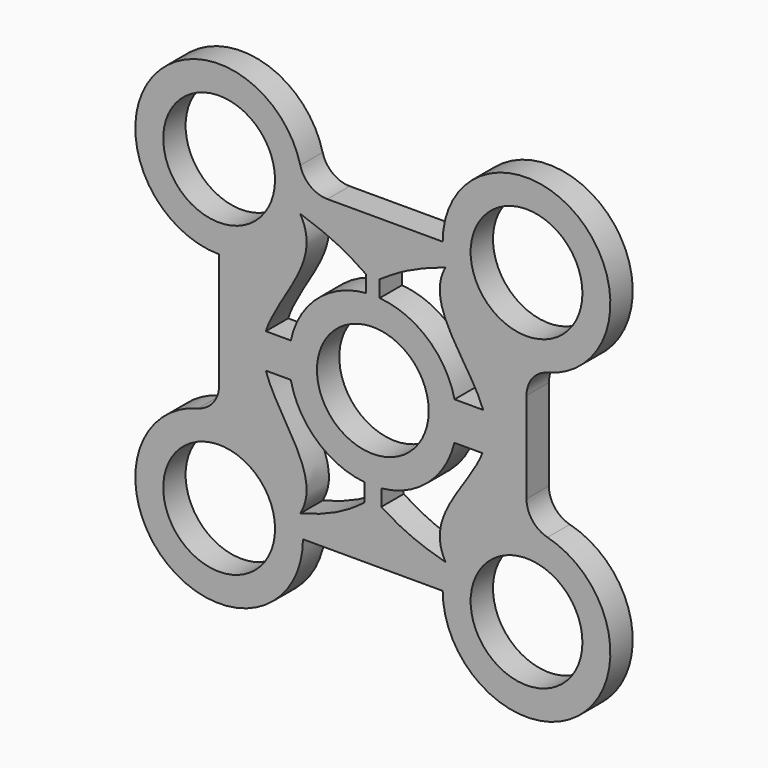
from build123d import *

# Parameters (mm, degrees)
F0_R     = 10
F1_DEPTH = 5
F2_R     = 5
F3_R     = 5
F4_DEPTH = 25


with BuildPart() as f1:
    # F0 (on Front) → F1 (new body)
    with BuildSketch(Plane.XZ):
        with BuildLine():
            add(Edge.make_bspline(
                [(19.6117025062, -3.4953018185), (20.0776619455, -2.3335824214), (20.6438929209, -0.0613566909), (20.1493664179, 2.2303480995), (19.742406118, 3.3519886549)],
                knots=[0.4195745688, 0.4195745688, 0.4195745688, 0.4195745688, 0.4960722568, 0.5688744263, 0.5688744263, 0.5688744263, 0.5688744263], degree=3))
            Line((19.742406118, 3.3519886549), (14.6206761833, 3.3519886549))
            ThreePointArc((14.6206761833, 3.3519886549), (14.9048673719, 1.6866916212), (15, 0))
            ThreePointArc((15, 0), (14.8964119942, -1.7598038809), (14.5870787068, -3.4953018185))
            Line((14.5870787068, -3.4953018185), (19.6117025062, -3.4953018185))
        make_face()
        with BuildLine():
            add(Edge.make_bspline(
                [(-1.5163984723, -18.1465453552), (-0.9012756584, -17.6861315251), (-0.0133596841, -17.0968852874), (0.8972354155, -17.4862781525), (1.5163984723, -17.845237755)],
                knots=[0.3644446734, 0.3644446734, 0.3644446734, 0.3644446734, 0.5028904355, 0.6389885865, 0.6389885865, 0.6389885865, 0.6389885865], degree=3))
            Line((1.5163984723, -17.845237755), (1.5163984723, -14.9231543473))
            ThreePointArc((1.5163984723, -14.9231543473), (0, -15), (-1.5163984723, -14.9231543473))
            Line((-1.5163984723, -14.9231543473), (-1.5163984723, -18.1465453552))
        make_face()
        with BuildLine():
            Line((-14.6757838937, 3.1018328621), (-19.1463490467, 3.1018328621))
            add(Edge.make_bspline(
                [(-19.1463490467, 3.1018328621), (-19.4804537552, 2.0677531569), (-19.877871021, 0), (-19.4804537552, -2.0677531569), (-19.1463490467, -3.1018328621)],
                knots=[0.434082988, 0.434082988, 0.434082988, 0.434082988, 0.5, 0.565917012, 0.565917012, 0.565917012, 0.565917012], degree=3))
            Line((-19.1463490467, -3.1018328621), (-14.6757838937, -3.1018328621))
            ThreePointArc((-14.6757838937, -3.1018328621), (-15, 0), (-14.6757838937, 3.1018328621))
        make_face()
        with BuildLine():
            Line((1.225561158, 14.9498494925), (1.225561158, 17.9168751217))
            add(Edge.make_bspline(
                [(1.225561158, 17.9168751217), (0.7517359921, 17.6368227378), (0, 17.3228835959), (-0.7517359921, 17.6368227378), (-1.225561158, 17.9168751217)],
                knots=[0.3852289018, 0.3852289018, 0.3852289018, 0.3852289018, 0.5, 0.6147710982, 0.6147710982, 0.6147710982, 0.6147710982], degree=3))
            Line((-1.225561158, 17.9168751217), (-1.225561158, 14.9498494925))
            ThreePointArc((-1.225561158, 14.9498494925), (0, 15), (1.225561158, 14.9498494925))
        make_face()
        with BuildLine():
            Line((27.5, -12.5), (27.5, 12.5))
            ThreePointArc((27.5, 12.5), (18.3695172954, 15.5989796412), (13.0117252596, 23.6154285891))
            add(Edge.make_bspline(
                [(19.742406118, 3.3519886549), (17.3324368296, 9.9942072978), (9.1074771998, 16.7819842724), (13.0117252596, 23.6154285891)],
                knots=[0.5688744263, 0.5688744263, 0.5688744263, 0.5688744263, 1, 1, 1, 1], degree=3))
            add(Edge.make_bspline(
                [(19.6117025062, -3.4953018185), (20.0776619455, -2.3335824214), (20.6438929209, -0.0613566909), (20.1493664179, 2.2303480995), (19.742406118, 3.3519886549)],
                knots=[0.4195745688, 0.4195745688, 0.4195745688, 0.4195745688, 0.4960722568, 0.5688744263, 0.5688744263, 0.5688744263, 0.5688744263], degree=3))
            add(Edge.make_bspline(
                [(13.0117252596, -22.8125530654), (9.2106265425, -16.1632445639), (17.0560078684, -9.8671011282), (19.6117025062, -3.4953018185)],
                knots=[0, 0, 0, 0, 0.4195745688, 0.4195745688, 0.4195745688, 0.4195745688], degree=3))
            add(Edge.make_bspline(
                [(1.5163984723, -17.845237755), (3.1587788316, -18.7974072918), (5.9815411198, -20.9170774405), (13.0117252596, -22.8125530654)],
                knots=[0.6389885865, 0.6389885865, 0.6389885865, 0.6389885865, 1, 1, 1, 1], degree=3))
            add(Edge.make_bspline(
                [(-1.5163984723, -18.1465453552), (-0.9012756584, -17.6861315251), (-0.0133596841, -17.0968852874), (0.8972354155, -17.4862781525), (1.5163984723, -17.845237755)],
                knots=[0.3644446734, 0.3644446734, 0.3644446734, 0.3644446734, 0.5028904355, 0.6389885865, 0.6389885865, 0.6389885865, 0.6389885865], degree=3))
            add(Edge.make_bspline(
                [(-13.0117252596, -23.6154285891), (-5.9146832629, -21.7019267737), (-3.1356479862, -19.3585388852), (-1.5163984723, -18.1465453552)],
                knots=[0, 0, 0, 0, 0.3644446734, 0.3644446734, 0.3644446734, 0.3644446734], degree=3))
            ThreePointArc((-13.0117252596, -23.6154285891), (-12.6284815653, -25.5409340371), (-12.5, -27.5))
            Line((-12.5, -27.5), (12.5, -27.5))
            ThreePointArc((12.5, -27.5), (16.8933982822, -16.8933982822), (27.5, -12.5))
        make_face()
        with BuildLine():
            ThreePointArc((-13.0117252596, 23.6154285891), (-18.3695172954, 15.5989796412), (-27.5, 12.5))
            Line((-27.5, 12.5), (-27.5, -12.5))
            ThreePointArc((-27.5, -12.5), (-18.3695172954, -15.5989796412), (-13.0117252596, -23.6154285891))
            add(Edge.make_bspline(
                [(-19.1463490467, -3.1018328621), (-16.9461708863, -9.9115530651), (-8.8743910836, -16.7300820857), (-13.0117252596, -23.6154285891)],
                knots=[0.565917012, 0.565917012, 0.565917012, 0.565917012, 1, 1, 1, 1], degree=3))
            add(Edge.make_bspline(
                [(-19.1463490467, 3.1018328621), (-19.4804537552, 2.0677531569), (-19.877871021, 0), (-19.4804537552, -2.0677531569), (-19.1463490467, -3.1018328621)],
                knots=[0.434082988, 0.434082988, 0.434082988, 0.434082988, 0.5, 0.565917012, 0.565917012, 0.565917012, 0.565917012], degree=3))
            add(Edge.make_bspline(
                [(-13.0117252596, 23.6154285891), (-8.8743910836, 16.7300820857), (-16.9461708863, 9.9115530651), (-19.1463490467, 3.1018328621)],
                knots=[0, 0, 0, 0, 0.434082988, 0.434082988, 0.434082988, 0.434082988], degree=3))
        make_face()
        with BuildLine():
            ThreePointArc((13.0117252596, 23.6154285891), (12.6284815653, 25.5409340371), (12.5, 27.5))
            Line((12.5, 27.5), (-12.5, 27.5))
            ThreePointArc((-12.5, 27.5), (-12.6284815653, 25.5409340371), (-13.0117252596, 23.6154285891))
            add(Edge.make_bspline(
                [(-1.225561158, 17.9168751217), (-2.8159541317, 18.856870242), (-5.5099399576, 21.1835256037), (-13.0117252596, 23.6154285891)],
                knots=[0.6147710982, 0.6147710982, 0.6147710982, 0.6147710982, 1, 1, 1, 1], degree=3))
            add(Edge.make_bspline(
                [(1.225561158, 17.9168751217), (0.7517359921, 17.6368227378), (0, 17.3228835959), (-0.7517359921, 17.6368227378), (-1.225561158, 17.9168751217)],
                knots=[0.3852289018, 0.3852289018, 0.3852289018, 0.3852289018, 0.5, 0.6147710982, 0.6147710982, 0.6147710982, 0.6147710982], degree=3))
            add(Edge.make_bspline(
                [(13.0117252596, 23.6154285891), (5.5099399576, 21.1835256037), (2.8159541317, 18.856870242), (1.225561158, 17.9168751217)],
                knots=[0, 0, 0, 0, 0.3852289018, 0.3852289018, 0.3852289018, 0.3852289018], degree=3))
        make_face()
        with BuildLine():
            ThreePointArc((27.5, 12.5), (38.1066017178, 16.8933982822), (42.5, 27.5))
            ThreePointArc((42.5, 27.5), (27.5, 42.5), (12.5, 27.5))
            ThreePointArc((12.5, 27.5), (12.6284815653, 25.5409340371), (13.0117252596, 23.6154285891))
            ThreePointArc((13.0117252596, 23.6154285891), (18.3695172954, 15.5989796412), (27.5, 12.5))
        make_face()
        with Locations((27.5, 27.5)):
            Circle(F0_R, mode=Mode.SUBTRACT)
        with BuildLine():
            ThreePointArc((15, 0), (14.9048673719, 1.6866916212), (14.6206761833, 3.3519886549))
            ThreePointArc((14.6206761833, 3.3519886549), (9.8185234873, 11.3400439386), (1.225561158, 14.9498494925))
            ThreePointArc((1.225561158, 14.9498494925), (0, 15), (-1.225561158, 14.9498494925))
            ThreePointArc((-1.225561158, 14.9498494925), (-9.9149920894, 11.2557954791), (-14.6757838937, 3.1018328621))
            ThreePointArc((-14.6757838937, 3.1018328621), (-15, 0), (-14.6757838937, -3.1018328621))
            ThreePointArc((-14.6757838937, -3.1018328621), (-10.0241010997, -11.1587363596), (-1.5163984723, -14.9231543473))
            ThreePointArc((-1.5163984723, -14.9231543473), (0, -15), (1.5163984723, -14.9231543473))
            ThreePointArc((1.5163984723, -14.9231543473), (9.8731680665, -11.2924998265), (14.5870787068, -3.4953018185))
            ThreePointArc((14.5870787068, -3.4953018185), (14.8964119942, -1.7598038809), (15, 0))
        make_face()
        Circle(F0_R, mode=Mode.SUBTRACT)
        with BuildLine():
            ThreePointArc((42.5, -27.5), (38.1066017178, -16.8933982822), (27.5, -12.5))
            ThreePointArc((27.5, -12.5), (16.8933982822, -16.8933982822), (12.5, -27.5))
            ThreePointArc((12.5, -27.5), (27.5, -42.5), (42.5, -27.5))
        make_face()
        with Locations((27.5, -27.5)):
            Circle(F0_R, mode=Mode.SUBTRACT)
        with BuildLine():
            ThreePointArc((-13.0117252596, -23.6154285891), (-18.3695172954, -15.5989796412), (-27.5, -12.5))
            ThreePointArc((-27.5, -12.5), (-38.1066017178, -38.1066017178), (-12.5, -27.5))
            ThreePointArc((-12.5, -27.5), (-12.6284815653, -25.5409340371), (-13.0117252596, -23.6154285891))
        make_face()
        with Locations((-27.5, -27.5)):
            Circle(F0_R, mode=Mode.SUBTRACT)
        with BuildLine():
            ThreePointArc((-13.0117252596, 23.6154285891), (-12.6284815653, 25.5409340371), (-12.5, 27.5))
            ThreePointArc((-12.5, 27.5), (-38.1066017178, 38.1066017178), (-27.5, 12.5))
            ThreePointArc((-27.5, 12.5), (-18.3695172954, 15.5989796412), (-13.0117252596, 23.6154285891))
        make_face()
        with Locations((-27.5, 27.5)):
            Circle(F0_R, mode=Mode.SUBTRACT)
    extrude(amount=F1_DEPTH)

    # F2
    f2_edges = [f1.edges().sort_by_distance(p)[0] for p in [
        (27.5, -2.5, -12.5),
    ]]
    fillet(f2_edges, radius=F2_R)

    # F3
    f3_edges = [f1.edges().sort_by_distance(p)[0] for p in [
        (-27.5, -2.5, -12.5),
        (-12.5, -2.5, 27.5),
        (27.5, -2.5, 12.5),
    ]]
    fillet(f3_edges, radius=F3_R)


with BuildPart() as f4:
    # F0 (on Front) → F4 (new body)
    with BuildSketch(Plane.XZ):
        Circle(F0_R)
    extrude(amount=F4_DEPTH)


solid = f1.part
